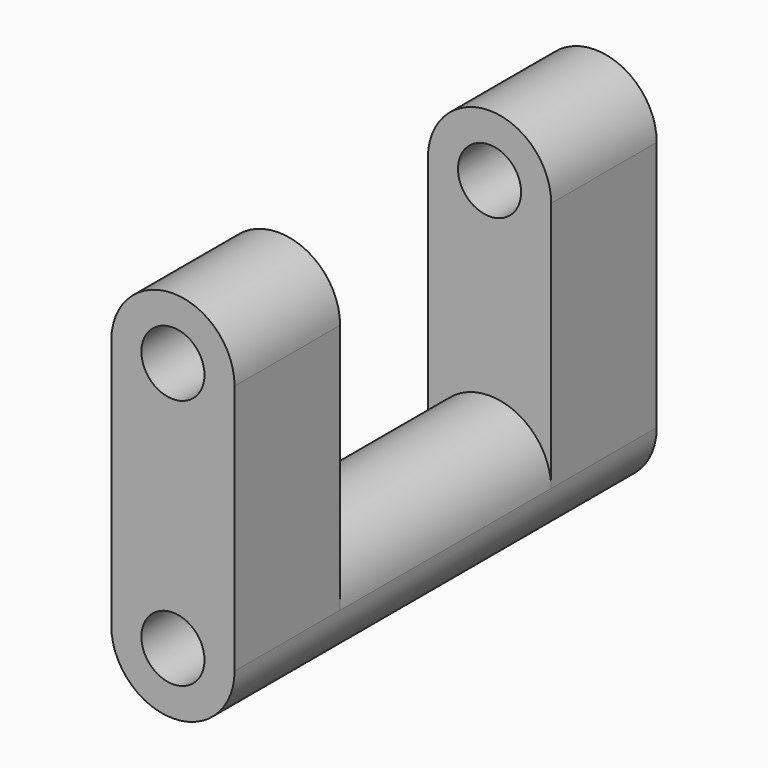
from build123d import *

# Parameters (mm, degrees)
F0_R     = 6.076519
F1_DEPTH = 25.4
F2_DEPTH = 25.4


with BuildPart() as f1:
    # F0 (on Front) → F1 (new body)
    with BuildSketch(Plane.XZ):
        with BuildLine():
            ThreePointArc((0, 0), (-11.868954, 11.868954), (-23.737907, 0))
            ThreePointArc((-23.737907, 0), (-11.868954, -11.868954), (0, 0))
        make_face()
        with Locations((-11.868954, 0)):
            Circle(F0_R, mode=Mode.SUBTRACT)
        with BuildLine():
            Line((-23.737907, 48.319295), (-23.737907, 0))
            ThreePointArc((-23.737907, 0), (-11.868954, 11.868954), (0, 0))
            Line((0, 0), (0, 48.319295))
            ThreePointArc((0, 48.319295), (-11.868954, 60.188249), (-23.737907, 48.319295))
        make_face()
        with Locations((-11.868954, 48.319295)):
            Circle(F0_R, mode=Mode.SUBTRACT)
    extrude(amount=F1_DEPTH)

    # F0 (on Front) → F2 (join)
    with BuildSketch(Plane.XZ):
        with BuildLine():
            ThreePointArc((0, 0), (-11.868954, 11.868954), (-23.737907, 0))
            ThreePointArc((-23.737907, 0), (-11.868954, -11.868954), (0, 0))
        make_face()
        with Locations((-11.868954, 0)):
            Circle(F0_R, mode=Mode.SUBTRACT)
    extrude(amount=-F2_DEPTH)

    # F3: F1 across face


with BuildPart() as f1_1:
    add(f1.part)
    add(f1.part.mirror(Plane(origin=(-11.868954, 25.4, 0), x_dir=(1, 0, 0), z_dir=(0, 1, 0))))


solid = f1_1.part
